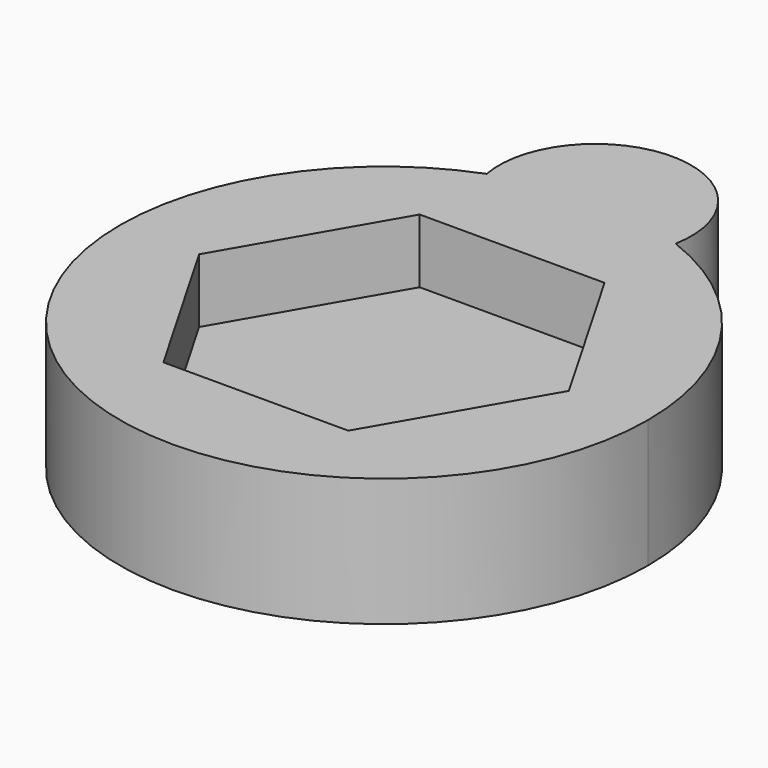
from build123d import *

# Parameters (mm, degrees)
F1_DEPTH = 25.4
F2_DEPTH = 12.7


with BuildPart() as f1:
    # F0 (on Top) → F1 (new body)
    with BuildSketch(Plane.XY):
        with BuildLine():
            ThreePointArc((-18.731922, 48.87544), (-29.658268, -43.128652), (52.342082, 0))
            ThreePointArc((52.342082, 0), (43.128652, 29.658268), (18.731922, 48.87544))
            ThreePointArc((18.731922, 48.87544), (0, 52.342082), (-18.731922, 48.87544))
        make_face()
        Polygon((-36.661742, 0), (-18.330871, 31.75), (18.330871, 31.75), (36.661742, 0), (18.330871, -31.75), (-18.330871, -31.75), align=None, mode=Mode.SUBTRACT)
        with BuildLine():
            ThreePointArc((-18.731922, 48.87544), (0, 52.342082), (18.731922, 48.87544))
            ThreePointArc((18.731922, 48.87544), (0, 71.392082), (-18.731922, 48.87544))
        make_face()
    extrude(amount=F1_DEPTH)

    # F0 (on Top) → F2 (join)
    with BuildSketch(Plane.XY):
        Polygon((18.330871, 31.75), (-18.330871, 31.75), (-36.661742, 0), (-18.330871, -31.75), (18.330871, -31.75), (36.661742, 0), align=None)
    extrude(amount=F2_DEPTH)


solid = f1.part
